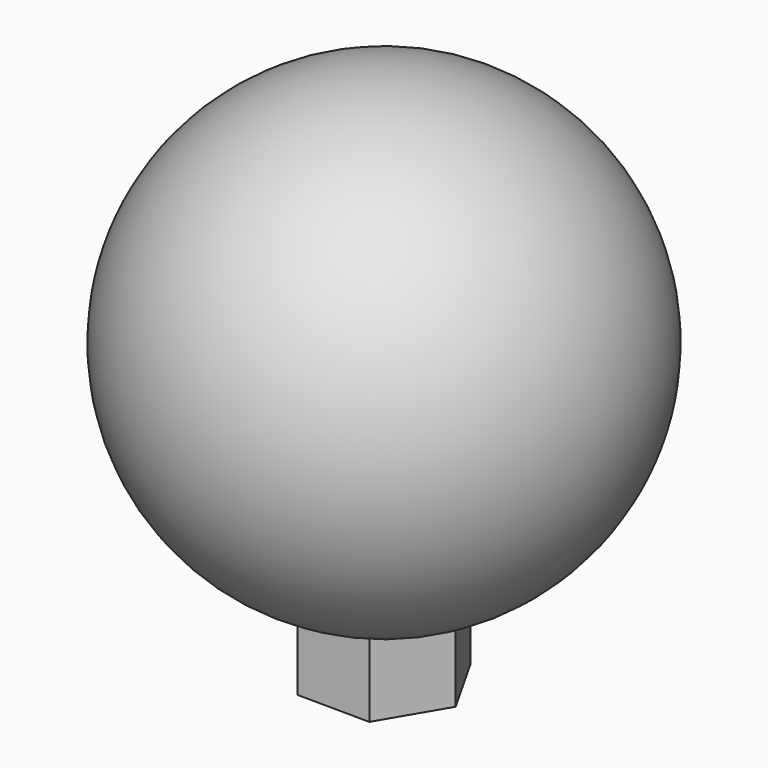
from build123d import *

# Parameters (mm, degrees)
F3_DEPTH = 76.2


with BuildPart() as f1:
    # F0 (on Top) → F1 (revolve)
    with BuildSketch(Plane.XY):
        with BuildLine():
            Line((-59.489775, 0), (59.489775, 0))
            ThreePointArc((59.489775, 0), (0, 59.489775), (-59.489775, 0))
        make_face()
    revolve(axis=Axis((0, 0, 0), (1, 0, 0)))

    # F2 (on Top) → F3 (join)
    with BuildSketch(Plane.XY):
        Polygon((9.3931, 15.962869), (-9.127701, 16.116098), (-18.5208, 0.153228), (-9.3931, -15.962869), (9.127701, -16.116098), (18.5208, -0.153228), align=None)
    extrude(amount=-F3_DEPTH)


solid = f1.part
